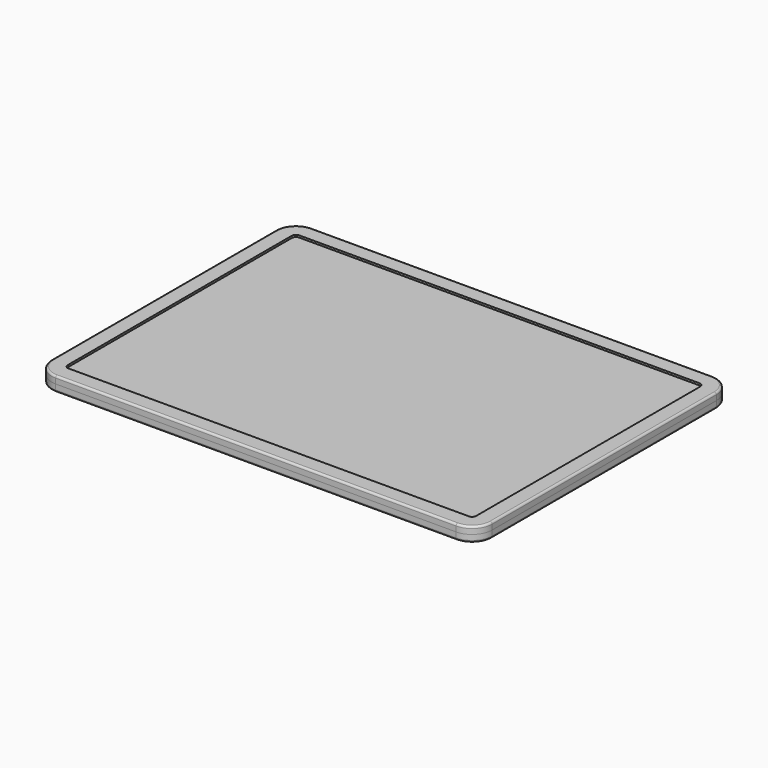
from build123d import *

# Parameters (mm, degrees)
F1_DEPTH = 13
F2_DEPTH = 18
F3_DEPTH = 18
F4_R     = 5
F5_R     = 5


with BuildPart() as f1:
    # F0 (on Top) → F1 (new body)
    with BuildSketch(Plane.XY):
        with BuildLine():
            Line((500, 400), (-500, 400))
            ThreePointArc((-500, 400), (-535.355339, 385.355339), (-550, 350))
            Line((-550, 350), (-550, -350))
            ThreePointArc((-550, -350), (-535.355339, -385.355339), (-500, -400))
            Line((-500, -400), (500, -400))
            ThreePointArc((500, -400), (535.355339, -385.355339), (550, -350))
            Line((550, -350), (550, 350))
            ThreePointArc((550, 350), (535.355339, 385.355339), (500, 400))
        make_face()
        with BuildLine():
            ThreePointArc((-510, 350), (-507.071068, 357.071068), (-500, 360))
            Line((-500, 360), (500, 360))
            ThreePointArc((500, 360), (507.071068, 357.071068), (510, 350))
            Line((510, 350), (510, -350))
            ThreePointArc((510, -350), (507.071068, -357.071068), (500, -360))
            Line((500, -360), (-500, -360))
            ThreePointArc((-500, -360), (-507.071068, -357.071068), (-510, -350))
            Line((-510, -350), (-510, 350))
        make_face(mode=Mode.SUBTRACT)
        with BuildLine():
            Line((500, 360), (-500, 360))
            ThreePointArc((-500, 360), (-507.071068, 357.071068), (-510, 350))
            Line((-510, 350), (-510, -350))
            ThreePointArc((-510, -350), (-507.071068, -357.071068), (-500, -360))
            Line((-500, -360), (500, -360))
            ThreePointArc((500, -360), (507.071068, -357.071068), (510, -350))
            Line((510, -350), (510, 350))
            ThreePointArc((510, 350), (507.071068, 357.071068), (500, 360))
        make_face()
    extrude(amount=F1_DEPTH)

    # F0 (on Top) → F2 (join)
    with BuildSketch(Plane.XY):
        with BuildLine():
            Line((500, 400), (-500, 400))
            ThreePointArc((-500, 400), (-535.355339, 385.355339), (-550, 350))
            Line((-550, 350), (-550, -350))
            ThreePointArc((-550, -350), (-535.355339, -385.355339), (-500, -400))
            Line((-500, -400), (500, -400))
            ThreePointArc((500, -400), (535.355339, -385.355339), (550, -350))
            Line((550, -350), (550, 350))
            ThreePointArc((550, 350), (535.355339, 385.355339), (500, 400))
        make_face()
        with BuildLine():
            ThreePointArc((-510, 350), (-507.071068, 357.071068), (-500, 360))
            Line((-500, 360), (500, 360))
            ThreePointArc((500, 360), (507.071068, 357.071068), (510, 350))
            Line((510, 350), (510, -350))
            ThreePointArc((510, -350), (507.071068, -357.071068), (500, -360))
            Line((500, -360), (-500, -360))
            ThreePointArc((-500, -360), (-507.071068, -357.071068), (-510, -350))
            Line((-510, -350), (-510, 350))
        make_face(mode=Mode.SUBTRACT)
    extrude(amount=F2_DEPTH)

    # F4
    f4_edges = [f1.edges().sort_by_distance(p)[0] for p in [
        (550, 0, 18),
    ]]
    fillet(f4_edges, radius=F4_R)


with BuildPart() as f3:
    # F0 (on Top) → F3 (new body)
    with BuildSketch(Plane.XY):
        with BuildLine():
            Line((500, 400), (-500, 400))
            ThreePointArc((-500, 400), (-535.355339, 385.355339), (-550, 350))
            Line((-550, 350), (-550, -350))
            ThreePointArc((-550, -350), (-535.355339, -385.355339), (-500, -400))
            Line((-500, -400), (500, -400))
            ThreePointArc((500, -400), (535.355339, -385.355339), (550, -350))
            Line((550, -350), (550, 350))
            ThreePointArc((550, 350), (535.355339, 385.355339), (500, 400))
        make_face()
        with BuildLine():
            ThreePointArc((-510, 350), (-507.071068, 357.071068), (-500, 360))
            Line((-500, 360), (500, 360))
            ThreePointArc((500, 360), (507.071068, 357.071068), (510, 350))
            Line((510, 350), (510, -350))
            ThreePointArc((510, -350), (507.071068, -357.071068), (500, -360))
            Line((500, -360), (-500, -360))
            ThreePointArc((-500, -360), (-507.071068, -357.071068), (-510, -350))
            Line((-510, -350), (-510, 350))
        make_face(mode=Mode.SUBTRACT)
        with BuildLine():
            Line((500, 360), (-500, 360))
            ThreePointArc((-500, 360), (-507.071068, 357.071068), (-510, 350))
            Line((-510, 350), (-510, -350))
            ThreePointArc((-510, -350), (-507.071068, -357.071068), (-500, -360))
            Line((-500, -360), (500, -360))
            ThreePointArc((500, -360), (507.071068, -357.071068), (510, -350))
            Line((510, -350), (510, 350))
            ThreePointArc((510, 350), (507.071068, 357.071068), (500, 360))
        make_face()
    extrude(amount=-F3_DEPTH)

    # F5
    f5_edges = [f3.edges().sort_by_distance(p)[0] for p in [
        (550, 0, -18),
    ]]
    fillet(f5_edges, radius=F5_R)


solid = Compound([f1.part, f3.part])
